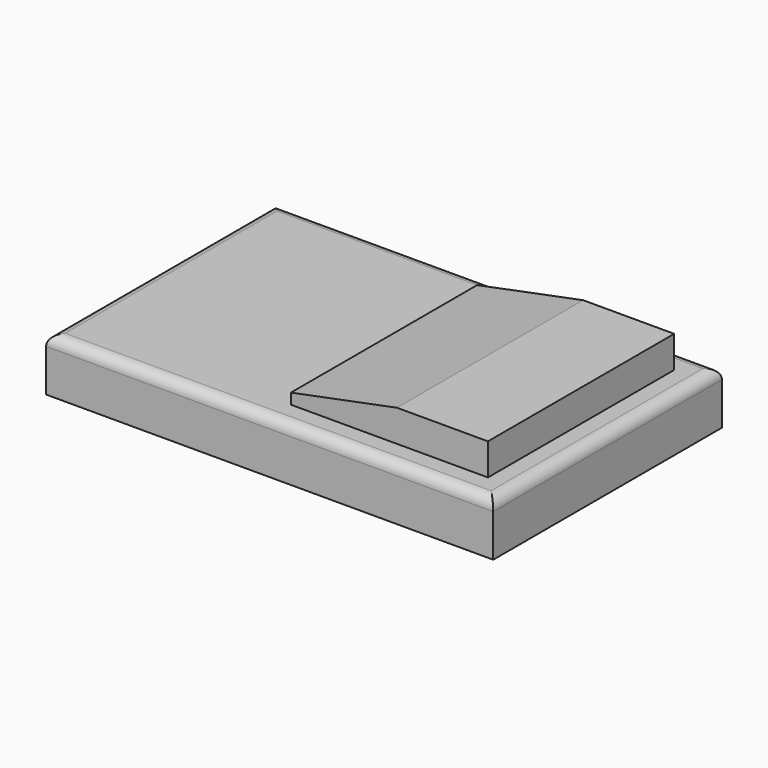
from build123d import *

# Parameters (mm, degrees)
F0_W     = 107.0887371898
F0_H     = 68.4632211924
F2_DEPTH = 12.7
F1_W     = 47.1943685949
F1_H     = 55.7632211924
F3_DEPTH = 20.32
F4_SIZE2 = 5.08
F4_SIZE  = 25.4
F5_R     = 2.54


with BuildPart() as f2:
    # F0 (on Top) → F2 (new body)
    with BuildSketch(Plane.XY):
        Rectangle(F0_W, F0_H)
    extrude(amount=F2_DEPTH)

    # F1 (on Top) → F3 (join)
    with BuildSketch(Plane.XY):
        with Locations((23.5971842974, 0)):
            Rectangle(F1_W, F1_H)
    extrude(amount=F3_DEPTH)

    # F4
    f4_edges = [f2.edges().sort_by_distance(p)[0] for p in [
        (0, 0, 20.32),
    ]]
    f4_side = f2.faces().sort_by_distance((23.597184, 0, 20.32))[0]
    chamfer(f4_edges, length=F4_SIZE, length2=F4_SIZE2, reference=f4_side)

    # F5
    f5_edges = [f2.edges().sort_by_distance(p)[0] for p in [
        (0, 34.231611, 12.7),
        (53.544369, 0, 12.7),
        (0, -34.231611, 12.7),
        (-53.544369, 0, 12.7),
    ]]
    fillet(f5_edges, radius=F5_R)


solid = f2.part
